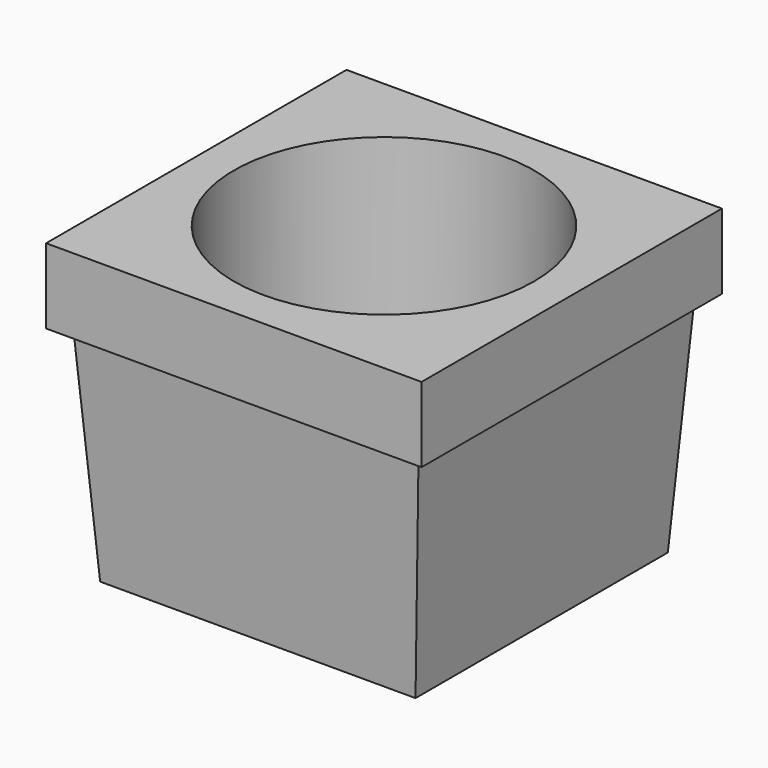
from build123d import *

# Parameters (mm, degrees)
SKETCH_W       = 25
SKETCH_H       = 25
PAD_DEPTH      = 15
SKETCH002_W    = 21
SKETCH002_H    = 21
SKETCH001_W    = 23
SKETCH001_H    = 23
SKETCH004_W    = 25
SKETCH004_H    = 25
PAD001_DEPTH   = 20
CYLINDER_R     = 10
CYLINDER_DEPTH = 20


with BuildPart() as body:
    # Sketch → Pad (new body)
    with BuildSketch(Plane.XY):
        Rectangle(SKETCH_W, SKETCH_H)
    extrude(amount=PAD_DEPTH)

    # Sketch002 (on Face5 of Pad) → SubtractiveLoft section 0
    with BuildSketch(Plane(origin=(0, 0, 0), x_dir=(1, 0, 0), z_dir=(0, 0, -1))):
        Rectangle(SKETCH002_W, SKETCH002_H)
    # Sketch001 (on Face6 of Pad) → SubtractiveLoft section 1
    with BuildSketch(Plane.XY.offset(15)):
        Rectangle(SKETCH001_W, SKETCH001_H)
    loft(mode=Mode.SUBTRACT)


with BuildPart() as body001:
    # Sketch004 → Pad001 (new body)
    with BuildSketch(Plane.XY):
        Rectangle(SKETCH004_W, SKETCH004_H)
    extrude(amount=PAD001_DEPTH)

    # Boolean: cut Body
    add(body.part, mode=Mode.SUBTRACT)

    # Cylinder → Cylinder (cut)
    with BuildSketch(Plane.XY):
        Circle(CYLINDER_R)
    extrude(amount=CYLINDER_DEPTH, mode=Mode.SUBTRACT)


solid = body001.part
